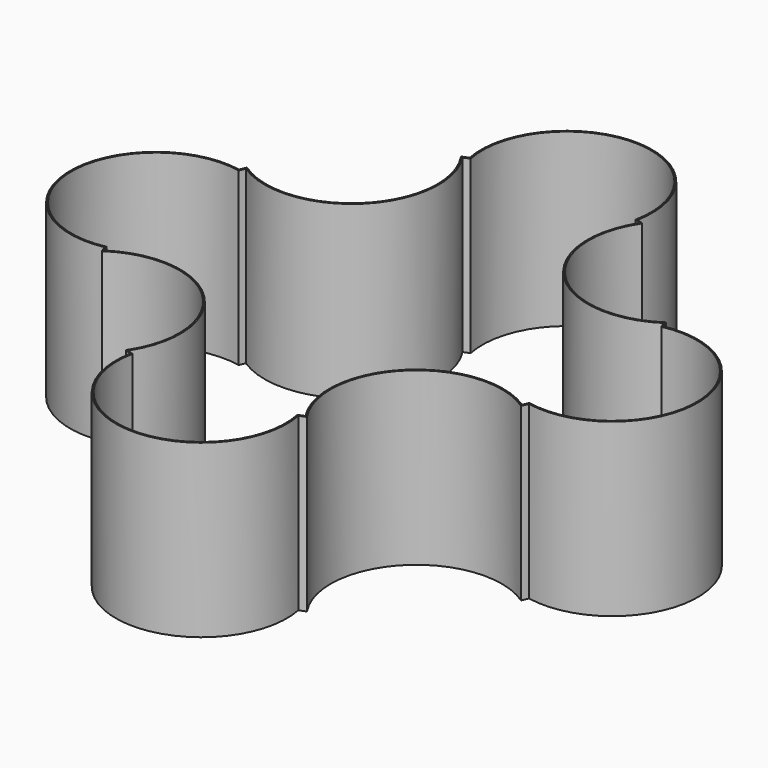
from build123d import *

# Parameters (mm, degrees)
F1_DEPTH = 300
F2_T     = -2.5


with BuildPart() as f1:
    # F0 (on Top) → F1 (new body)
    with BuildSketch(Plane.XY):
        with BuildLine():
            ThreePointArc((-158.7704400152, 367.1402284923), (-176.7766952966, 176.7766952966), (-367.1402284923, 158.7704400152))
            ThreePointArc((-367.1402284923, 158.7704400152), (-369.5518130045, 153.073372946), (-371.875, 147.3396904266))
            ThreePointArc((-371.875, 147.3396904266), (-550, 0), (-371.875, -147.3396904266))
            ThreePointArc((-371.875, -147.3396904266), (-369.5518130045, -153.073372946), (-367.1402284923, -158.7704400152))
            ThreePointArc((-367.1402284923, -158.7704400152), (-176.7766952966, -176.7766952966), (-158.7704400152, -367.1402284923))
            ThreePointArc((-158.7704400152, -367.1402284923), (-153.073372946, -369.5518130045), (-147.3396904266, -371.875))
            ThreePointArc((-147.3396904266, -371.875), (0, -550), (147.3396904266, -371.875))
            ThreePointArc((147.3396904266, -371.875), (153.073372946, -369.5518130045), (158.7704400152, -367.1402284923))
            ThreePointArc((158.7704400152, -367.1402284923), (176.7766952966, -176.7766952966), (367.1402284923, -158.7704400152))
            ThreePointArc((367.1402284923, -158.7704400152), (369.5518130045, -153.073372946), (371.875, -147.3396904266))
            ThreePointArc((371.875, -147.3396904266), (550, 0), (371.875, 147.3396904266))
            ThreePointArc((371.875, 147.3396904266), (369.5518130045, 153.073372946), (367.1402284923, 158.7704400152))
            ThreePointArc((367.1402284923, 158.7704400152), (176.7766952966, 176.7766952966), (158.7704400152, 367.1402284923))
            ThreePointArc((158.7704400152, 367.1402284923), (153.073372946, 369.5518130045), (147.3396904266, 371.875))
            ThreePointArc((147.3396904266, 371.875), (0, 550), (-147.3396904266, 371.875))
            ThreePointArc((-147.3396904266, 371.875), (-153.073372946, 369.5518130045), (-158.7704400152, 367.1402284923))
        make_face()
    extrude(amount=F1_DEPTH)

    # F2
    f2_openings = [f1.faces().sort_by_distance(p)[0] for p in [
        (0, 0, 300),
        (0, 0, 0),
    ]]
    offset(amount=F2_T, openings=f2_openings, kind=Kind.INTERSECTION)


solid = f1.part
